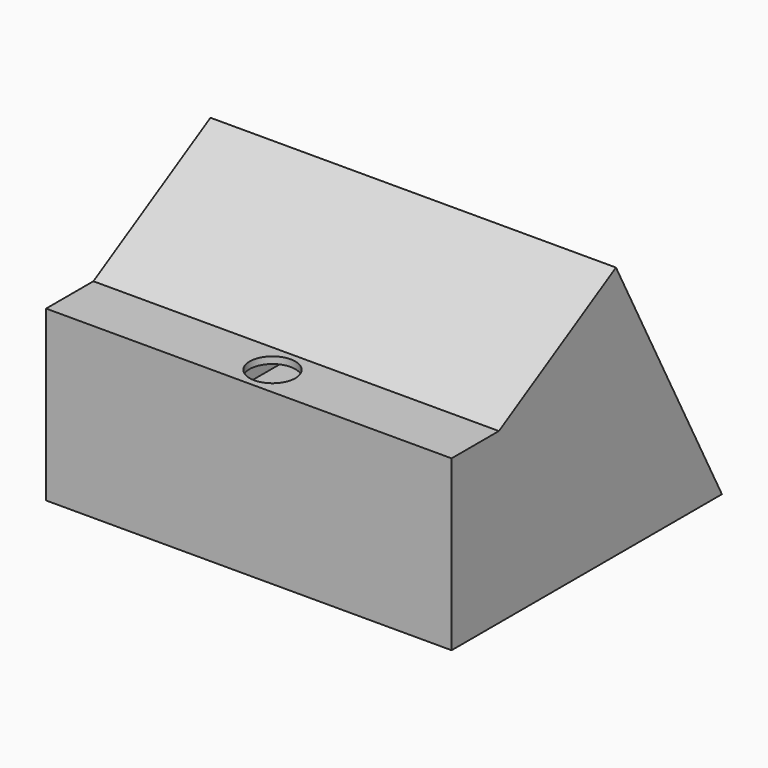
from build123d import *

# Parameters (mm, degrees)
F1_DEPTH = 480
F2_T     = -8
F3_R     = 27
F4_DEPTH = 25


with BuildPart() as f1:
    # F0 (on Right) → F1 (new body)
    with BuildSketch(Plane.YZ):
        Polygon((0, 200), (0, 0), (400, 0), (243.2050807569, 300), (70, 200), align=None)
    extrude(amount=F1_DEPTH)

    # F2
    f2_openings = [f1.faces().sort_by_distance(p)[0] for p in [
        (240, 321.60254, 150),
    ]]
    offset(amount=F2_T, openings=f2_openings, kind=Kind.INTERSECTION)

    # F3 (on face) → F4 (cut)
    with BuildSketch(Plane.XY.offset(200)):
        with Locations((240, 35)):
            Circle(F3_R)
    extrude(amount=-F4_DEPTH, mode=Mode.SUBTRACT)


solid = f1.part
